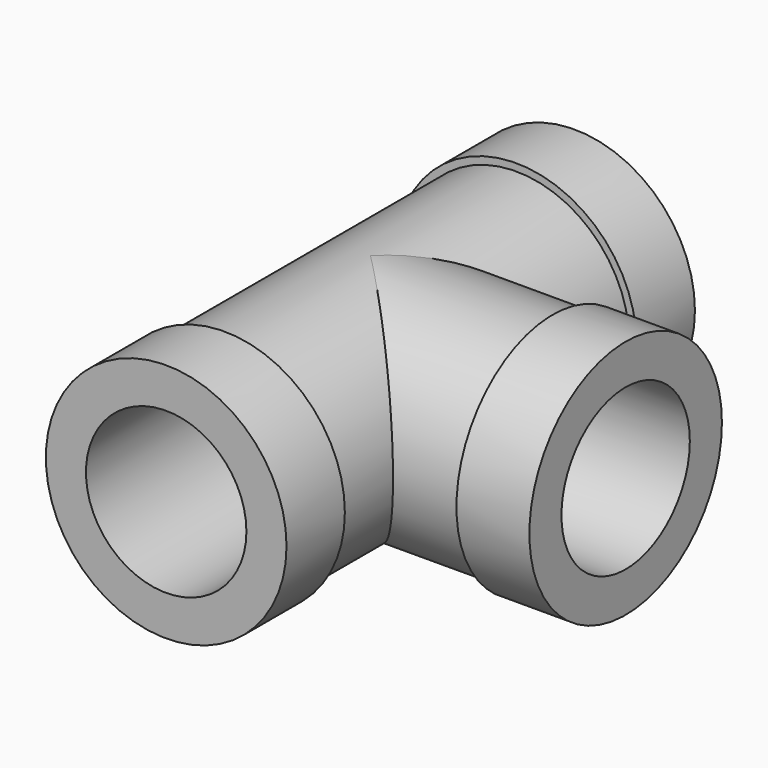
from build123d import *

# Parameters (mm, degrees)
F0_R      = 15.5
F0_R_2    = 11
F1_DEPTH  = 25
F2_R      = 16.5
F2_R_2    = 11
F3_DEPTH  = 10
F5_R      = 15.5
F5_R_2    = 11
F6_DEPTH  = 25
F7_R      = 16.5
F7_R_2    = 11
F8_DEPTH  = 10
F9_R      = 11
F10_DEPTH = 200
F11_R     = 11
F12_DEPTH = 35


with BuildPart() as f1:
    # F0 (on Front) → F1 (new body)
    with BuildSketch(Plane.XZ):
        Circle(F0_R)
        Circle(F0_R_2, mode=Mode.SUBTRACT)
    extrude(amount=F1_DEPTH)

    # F2 (on face) → F3 (join)
    with BuildSketch(Plane.XZ.offset(25)):
        Circle(F2_R)
        Circle(F2_R_2, mode=Mode.SUBTRACT)
    extrude(amount=F3_DEPTH)

    # F4: F1 across plane


with BuildPart() as f1_1:
    add(f1.part)
    add(f1.part.mirror(Plane.XZ))

    # F5 (on Right) → F6 (join)
    with BuildSketch(Plane.YZ):
        Circle(F5_R)
        Circle(F5_R_2, mode=Mode.SUBTRACT)
    extrude(amount=F6_DEPTH)

    # F7 (on face) → F8 (join)
    with BuildSketch(Plane.YZ.offset(25)):
        Circle(F7_R)
        Circle(F7_R_2, mode=Mode.SUBTRACT)
    extrude(amount=F8_DEPTH)

    # F9 (on face) → F10 (cut)
    with BuildSketch(Plane.XZ.offset(35)):
        Circle(F9_R)
    extrude(amount=-F10_DEPTH, mode=Mode.SUBTRACT)

    # F11 (on face) → F12 (cut)
    with BuildSketch(Plane.YZ.offset(35)):
        Circle(F11_R)
    extrude(amount=-F12_DEPTH, mode=Mode.SUBTRACT)


solid = f1_1.part
